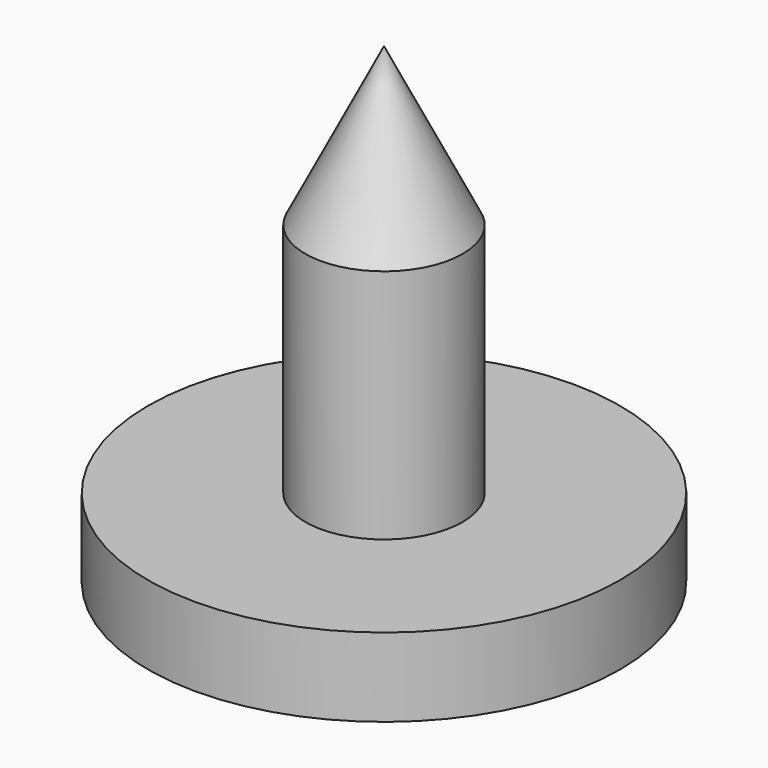
from build123d import *

# Parameters (mm, degrees)
CYLINDER_R        = 3
CYLINDER_DEPTH    = 1
CYLINDER001_R     = 1
CYLINDER001_DEPTH = 4


with BuildPart() as part:
    # Cylinder → Cylinder (join)
    with BuildSketch(Plane.XY):
        Circle(CYLINDER_R)
    extrude(amount=CYLINDER_DEPTH)

    # Cylinder001 → Cylinder001 (join)
    with BuildSketch(Plane.XY):
        Circle(CYLINDER001_R)
    extrude(amount=CYLINDER001_DEPTH)

    # Cone → Cone (revolve)
    with BuildSketch(Plane(origin=(0, 0, 4), x_dir=(1, 0, 0), z_dir=(0, -1, 0))):
        Polygon((0, 0), (1, 0), (0, 2), align=None)
    revolve(axis=Axis((0, 0, 4), (0, 0, 1)))


solid = part.part
